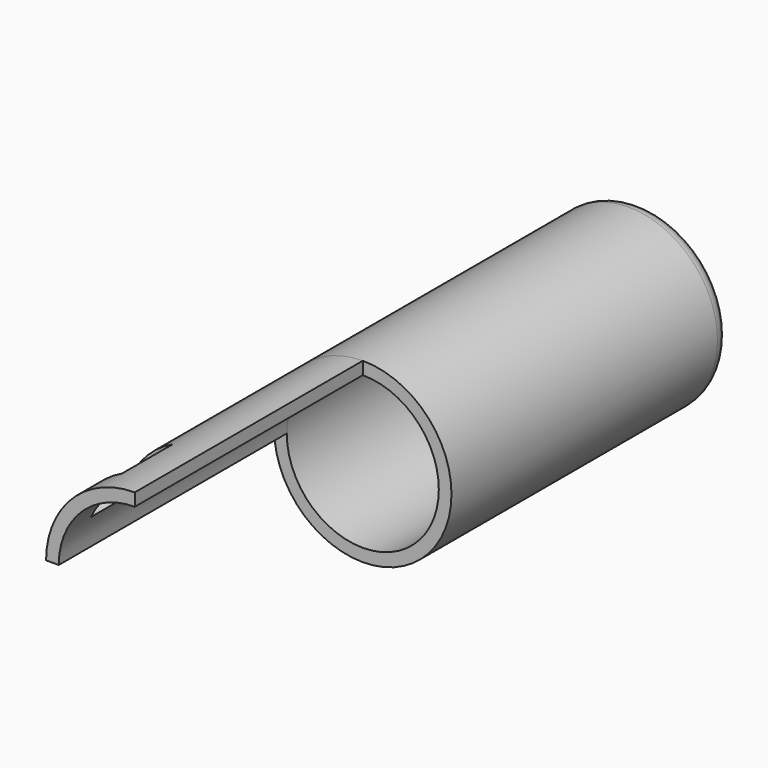
from build123d import *

# Parameters (mm, degrees)
F0_R      = 14
F1_DEPTH  = 55
F2_R      = 12
F3_DEPTH  = 25
F4_R      = 11
F5_DEPTH  = 20
F6_R      = 2.5
F10_DEPTH = 45
F12_START = -5
F12_DEPTH = 10


with BuildPart() as f1:
    # F0 (on Front) → F1 (new body)
    with BuildSketch(Plane.XZ):
        Circle(F0_R)
    extrude(amount=F1_DEPTH)

    # F2 (on face) → F3 (cut)
    with BuildSketch(Plane.XZ.offset(55)):
        Circle(F2_R)
    extrude(amount=-F3_DEPTH, mode=Mode.SUBTRACT)

    # F4 (on face) → F5 (cut)
    with BuildSketch(Plane.XZ.offset(30)):
        Circle(F4_R)
    extrude(amount=-F5_DEPTH, mode=Mode.SUBTRACT)

    # F6
    f6_edges = [f1.edges().sort_by_distance(p)[0] for p in [
        (-14, 0, 0),
    ]]
    fillet(f6_edges, radius=F6_R)

    # F7 (on Top) → F8 (revolve)
    with BuildSketch(Plane.XY):
        Polygon((0, -21), (0, -10), (-11, -10), align=None)
    revolve(axis=Axis((0, -15.5, 0), (0, -1, 0)))

    # F9 (on face) → F10 (join)
    with BuildSketch(Plane.XZ.offset(55)):
        with BuildLine():
            Line((-14, 0), (-12, 0))
            ThreePointArc((-12, 0), (-8.4852813742, 8.4852813742), (0, 12))
            Line((0, 12), (0, 14))
            ThreePointArc((0, 14), (-9.8994949366, 9.8994949366), (-14, 0))
        make_face()
    extrude(amount=F10_DEPTH)

    # F11 (on face) → F12 (cut)
    with BuildSketch(Plane.XZ.offset(100).offset(F12_START)):
        with BuildLine():
            Line((-12.6491106407, 6), (-10.9087121146, 5))
            ThreePointArc((-10.9087121146, 5), (-8.4852813742, 8.4852813742), (-5, 10.9087121146))
            Line((-5, 10.9087121146), (-6, 12.6491106407))
            ThreePointArc((-6, 12.6491106407), (-9.8994949366, 9.8994949366), (-12.6491106407, 6))
        make_face()
    extrude(amount=-F12_DEPTH, mode=Mode.SUBTRACT)


solid = f1.part
